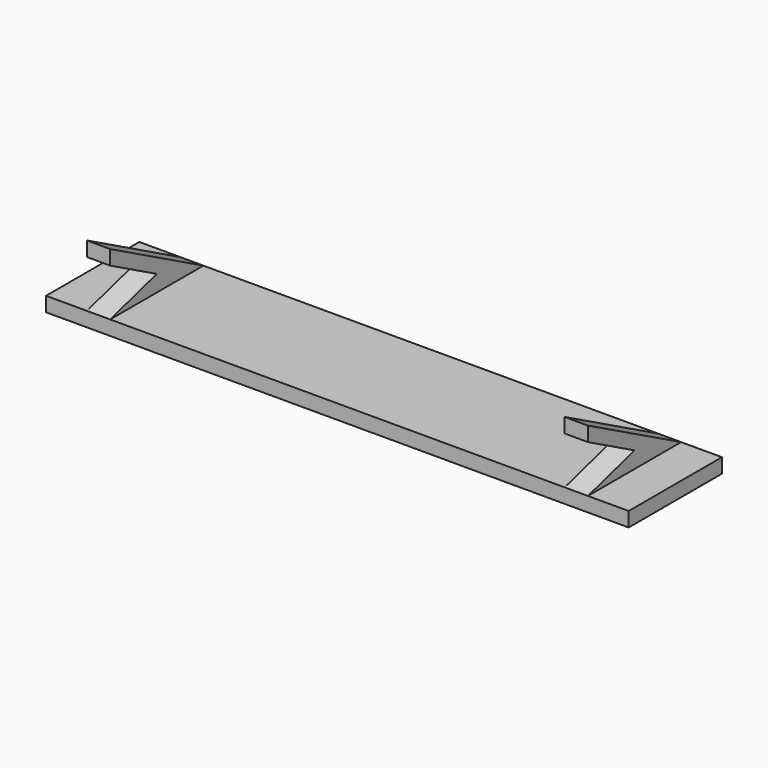
from build123d import *

# Parameters (mm, degrees)
SKETCH_W     = 100
SKETCH_H     = 20
PAD_DEPTH    = 2.5
PAD001_DEPTH = 2


with BuildPart() as part:
    # Sketch → Pad (new body)
    with BuildSketch(Plane.XY):
        Rectangle(SKETCH_W, SKETCH_H)
    extrude(amount=PAD_DEPTH)

    # Sketch002 (on DatumPlane) → Pad001 (join, symmetric)
    with BuildSketch(Plane.YZ.offset(-41)):
        Polygon((10, 2.5), (-10, 13.134189), (-10, 10.634189), (0, 5.317094), (-10, 2.5), align=None)
    pad001 = extrude(amount=PAD001_DEPTH, both=True)

    # Mirrored: Pad001 across YZ
    add(pad001.mirror(Plane.YZ))


solid = part.part
